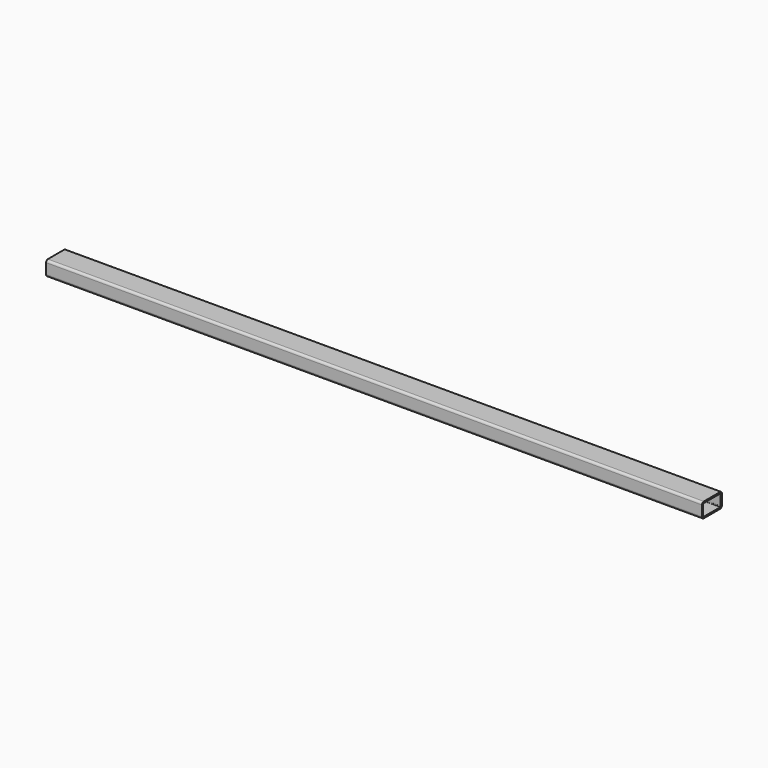
from build123d import *

# Parameters (mm, degrees)
F0_W     = 50
F0_H     = 30
F0_W_2   = 44
F0_H_2   = 24
F1_DEPTH = 660
F2_R     = 1.5
F3_R     = 4.5


with BuildPart() as f1:
    # F0 (on Right) → F1 (new body, symmetric)
    with BuildSketch(Plane.YZ):
        Rectangle(F0_W, F0_H)
        Rectangle(F0_W_2, F0_H_2, mode=Mode.SUBTRACT)
    extrude(amount=F1_DEPTH, both=True)

    # F2
    f2_edges = [f1.edges().sort_by_distance(p)[0] for p in [
        (0, -22, -12),
        (0, -22, 12),
        (0, 22, -12),
        (0, 22, 12),
    ]]
    fillet(f2_edges, radius=F2_R)

    # F3
    f3_edges = [f1.edges().sort_by_distance(p)[0] for p in [
        (0, -25, 15),
        (0, -25, -15),
        (0, 25, -15),
        (0, 25, 15),
    ]]
    fillet(f3_edges, radius=F3_R)


solid = f1.part
